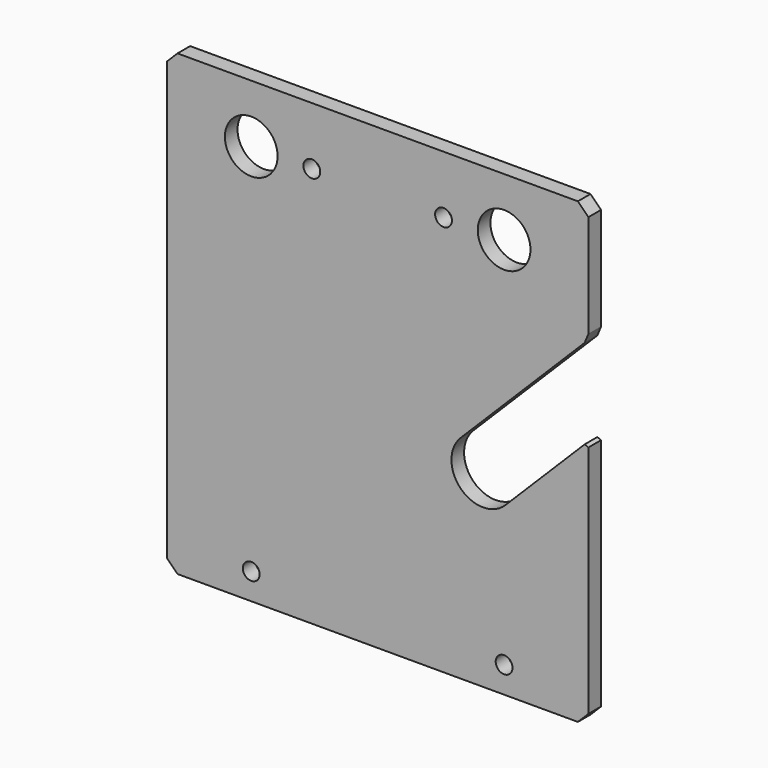
from build123d import *

# Parameters (mm, degrees)
SKETCH037_W     = 80
SKETCH037_H     = 87
PAD015_DEPTH    = 3
SKETCH038_R     = 1.6
SKETCH038_R_2   = 5
POCKET021_DEPTH = 3.001
CHAMFER019_SIZE = 2
SKETCH044_R     = 1.6
POCKET025_DEPTH = 3.001
POCKET030_DEPTH = 3.001
CHAMFER029_SIZE = 1


with BuildPart() as part:
    # Sketch037 → Pad015 (new body)
    with BuildSketch(Plane.XZ):
        with Locations((0, 7.5)):
            Rectangle(SKETCH037_W, SKETCH037_H)
    extrude(amount=-PAD015_DEPTH)

    # Sketch038 → Pocket021 (cut, through all)
    with BuildSketch(Plane.XZ):
        with Locations((-12.5, 40)):
            Circle(SKETCH038_R)
        with Locations((12.5, 40)):
            Circle(SKETCH038_R)
        with Locations((-24, 40)):
            Circle(SKETCH038_R_2)
        with Locations((24, 40)):
            Circle(SKETCH038_R_2)
    extrude(amount=-POCKET021_DEPTH, mode=Mode.SUBTRACT)

    # Chamfer019
    chamfer019_edges = [part.edges().sort_by_distance(p)[0] for p in [
        (40, 1.5, 51),
        (-40, 1.5, 51),
        (40, 1.5, -36),
        (-40, 1.5, -36),
    ]]
    chamfer(chamfer019_edges, length=CHAMFER019_SIZE)

    # Sketch044 → Pocket025 (cut, through all)
    with BuildSketch(Plane.XZ):
        with Locations((24, -31)):
            Circle(SKETCH044_R)
        with Locations((-24, -31)):
            Circle(SKETCH044_R)
    extrude(amount=-POCKET025_DEPTH, mode=Mode.SUBTRACT)

    # Sketch054 (on Face2 of Pocket025) → Pocket030 (cut, through all)
    with BuildSketch(Plane.XZ):
        with BuildLine():
            Line((40, 28.485281), (15.757359, 4.242641))
            ThreePointArc((15.757359, 4.242641), (15.757359, -4.242641), (24.242641, -4.242641))
            Line((40, 11.514719), (24.242641, -4.242641))
            Line((40, 28.485281), (40, 11.514719))
        make_face()
    extrude(amount=-POCKET030_DEPTH, mode=Mode.SUBTRACT)

    # Chamfer029
    chamfer029_edges = [part.edges().sort_by_distance(p)[0] for p in [
        (40, 1.5, 28.485281),
        (40, 1.5, 11.514719),
    ]]
    chamfer(chamfer029_edges, length=CHAMFER029_SIZE)


solid = part.part
